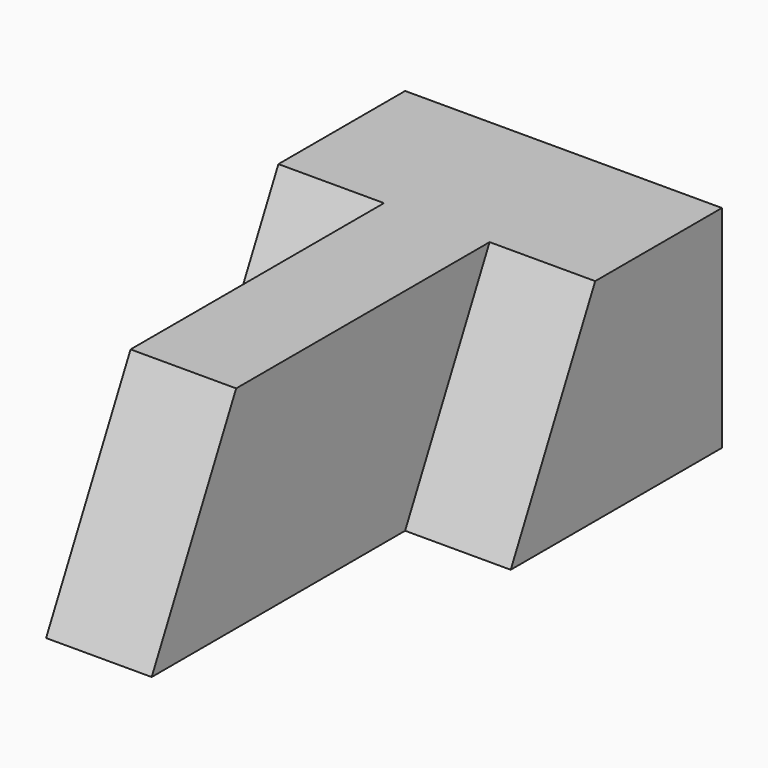
from build123d import *

# Parameters (mm, degrees)
F1_DEPTH = 25.4
F3_DEPTH = 12.7
F5_DEPTH = 12.7
F7_DEPTH = 12.7


with BuildPart() as f1:
    # F0 (on Top) → F1 (new body)
    with BuildSketch(Plane.XY):
        Polygon((0, 38.1), (0, 0), (12.7, 0), (12.7, 38.1), (25.4, 38.1), (25.4, 69.85), (-12.7, 69.85), (-12.7, 38.1), align=None)
    extrude(amount=F1_DEPTH)

    # F2 (on face) → F3 (cut)
    with BuildSketch(Plane(origin=(-12.7, 0, 0), x_dir=(0, -1, 0), z_dir=(-1, 0, 0))):
        Polygon((-50.8, 25.4), (-38.1, 0), (-38.1, 25.4), align=None)
    extrude(amount=-F3_DEPTH, mode=Mode.SUBTRACT)

    # F4 (on face) → F5 (cut)
    with BuildSketch(Plane.YZ.offset(25.4)):
        Polygon((50.8, 25.4), (38.1, 25.4), (38.1, 0), align=None)
    extrude(amount=-F5_DEPTH, mode=Mode.SUBTRACT)

    # F6 (on face) → F7 (cut)
    with BuildSketch(Plane.YZ.offset(12.7)):
        Polygon((12.7, 25.4), (0, 25.4), (0, 0), align=None)
    extrude(amount=-F7_DEPTH, mode=Mode.SUBTRACT)


solid = f1.part
